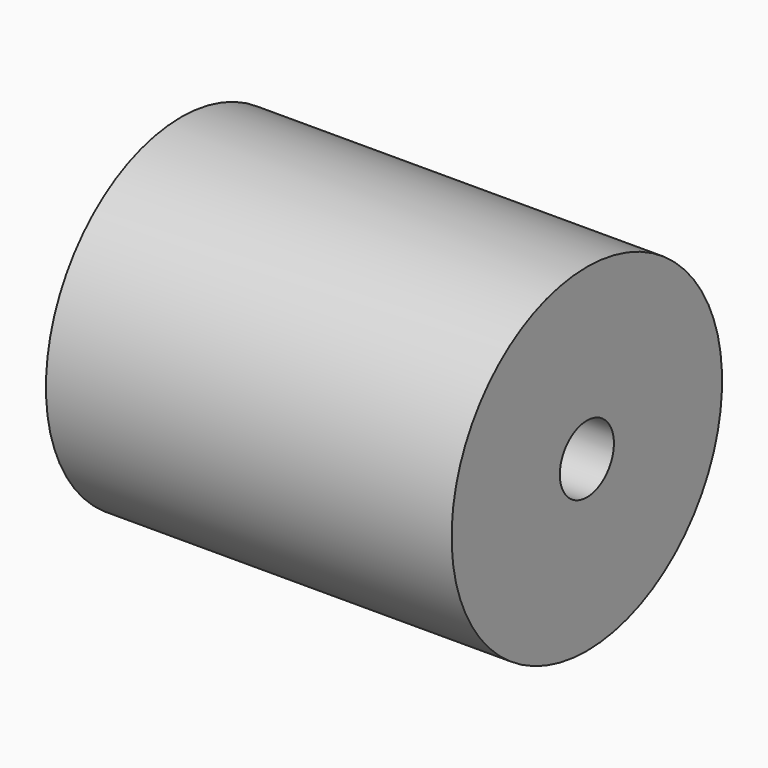
from build123d import *

# Parameters (mm, degrees)
F0_W = 30
F0_H = 12.5


with BuildPart() as f1:
    # F0 (on Front) → F1 (revolve)
    with BuildSketch(Plane.XZ):
        with Locations((0, 6.25)):
            Rectangle(F0_W, F0_H)
    revolve(axis=Axis((-50.863735, 0, 0), (-1, 0, 0)))

    # F2 (on Front) → F3 (revolve, cut)
    with BuildSketch(Plane.XZ):
        Polygon((-15, 0), (0, 0), (15, 0), (15, 2.5), (0, 2.5), (0, 4), (-15, 4), align=None)
    revolve(axis=Axis((-11.436696, 0, 0), (-1, 0, 0)), mode=Mode.SUBTRACT)


solid = f1.part
